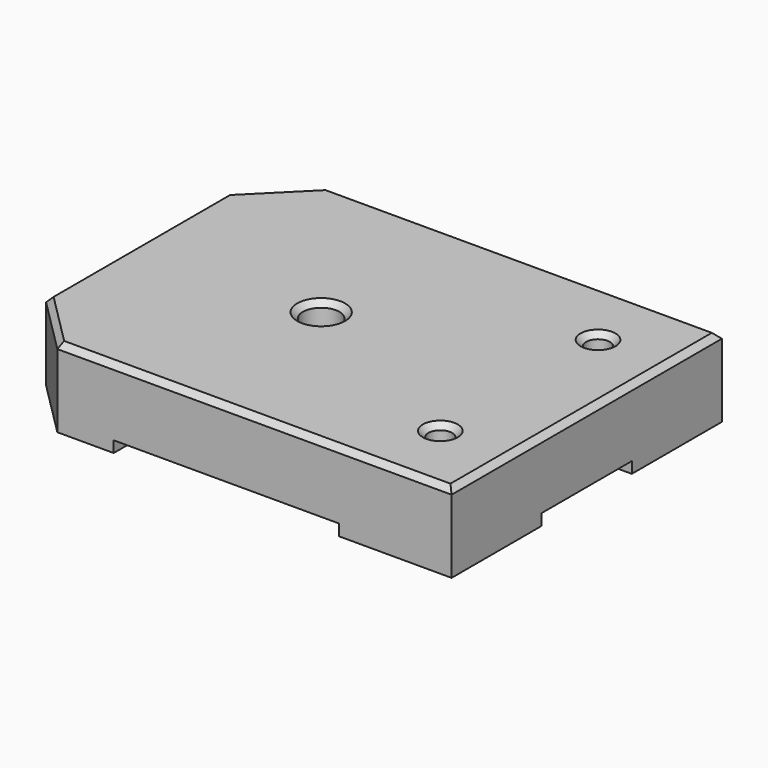
from build123d import *

# Parameters (mm, degrees)
F0_W      = 80
F0_H      = 60
F1_DEPTH  = 14
F2_W      = 80
F2_H      = 20
F3_DEPTH  = 2
F4_W      = 40
F4_H      = 20
F4_H_2    = 40
F5_DEPTH  = 2
F6_SIZE   = 10
F7_R      = 3.25
F8_DEPTH  = 25
F9_R      = 5.25
F10_DEPTH = 6.5
F12_D     = 4.2
F13_SIZE  = 1


with BuildPart() as f1:
    # F0 (on Top) → F1 (new body)
    with BuildSketch(Plane.XY):
        Rectangle(F0_W, F0_H)
    extrude(amount=F1_DEPTH)

    # F2 (on face) → F3 (cut)
    with BuildSketch(Plane(origin=(0, 0, 0), x_dir=(1, 0, 0), z_dir=(0, 0, -1))):
        Rectangle(F2_W, F2_H)
    extrude(amount=-F3_DEPTH, mode=Mode.SUBTRACT)

    # F4 (on face) → F5 (cut)
    with BuildSketch(Plane(origin=(0, 0, 0), x_dir=(1, 0, 0), z_dir=(0, 0, -1))):
        with Locations((0, 20)):
            Rectangle(F4_W, F4_H)
        with Locations((0, -10)):
            Rectangle(F4_W, F4_H_2)
    extrude(amount=-F5_DEPTH, mode=Mode.SUBTRACT)

    # F6
    f6_edges = [f1.edges().sort_by_distance(p)[0] for p in [
        (-40, 30, 7),
        (-40, -30, 7),
    ]]
    chamfer(f6_edges, length=F6_SIZE)

    # F7 (on face) → F8 (cut)
    with BuildSketch(Plane.XY.offset(14)):
        with Locations((-7.1571292716, 0)):
            Circle(F7_R)
    extrude(amount=-F8_DEPTH, mode=Mode.SUBTRACT)

    # F9 (on face) → F10 (cut)
    with BuildSketch(Plane(origin=(0, 0, 2), x_dir=(1, 0, 0), z_dir=(0, 0, -1))):
        with Locations((-7.1571292716, 0)):
            Circle(F9_R)
    extrude(amount=-F10_DEPTH, mode=Mode.SUBTRACT)

    # F12 (through all)
    with Locations(Plane.XY.offset(14)):
        with Locations((28, 17.5), (28, -17.5)):
            Hole(F12_D / 2)

    # F13
    f13_edges = [f1.edges().sort_by_distance(p)[0] for p in [
        (-40, 0, 14),
        (-35, 25, 14),
        (-35, -25, 14),
        (5, 30, 14),
        (5, -30, 14),
        (40, 0, 14),
        (25.9, -17.5, 14),
        (-10.407129, 0, 14),
        (25.9, 17.5, 14),
    ]]
    chamfer(f13_edges, length=F13_SIZE)


solid = f1.part
